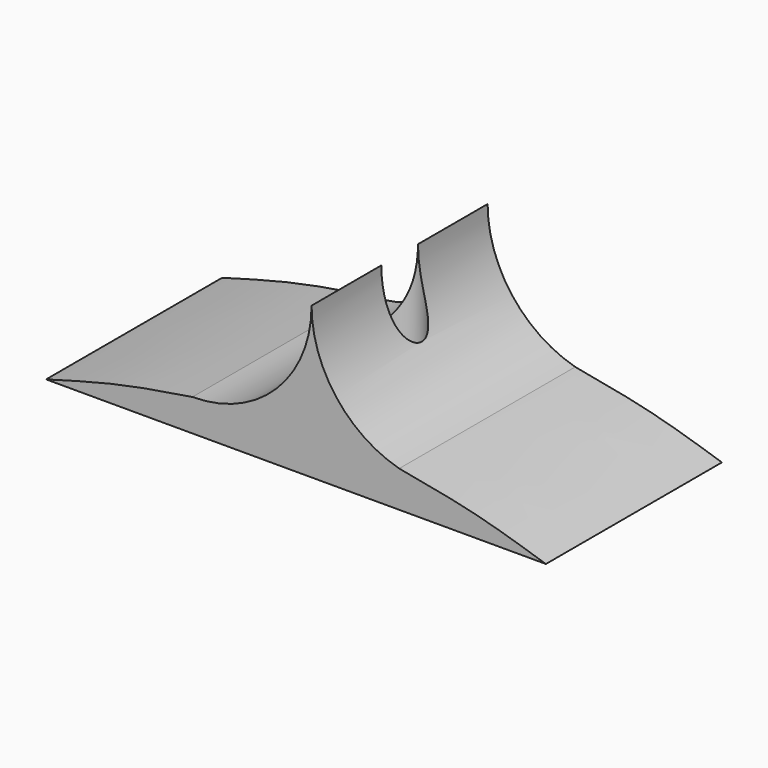
from build123d import *

# Parameters (mm, degrees)
F1_DEPTH = 12
F2_R     = 1.25
F3_DEPTH = 25
F2_R_2   = 2.25
F4_DEPTH = 2.5


with BuildPart() as f1:
    # F0 (on Front) → F1 (new body)
    with BuildSketch(Plane.XZ):
        with BuildLine():
            ThreePointArc((-15.0881102346, 0), (-16.991298859, -4.5955766968), (-21.5863641351, -6.4999997655))
            Line((-21.5863641351, -6.4999997655), (-21.5863641351, -8.2499998827))
            Line((-21.5863641351, -8.2499998827), (-10.3100242913, -8.2499998827))
            Line((-10.3100242913, -8.2499998827), (-10.3100242913, -6.2677756805))
            ThreePointArc((-10.3100242913, -6.2677756805), (-13.7573675008, -3.9406572188), (-15.0881102346, 0))
        make_face()
        with BuildLine():
            Line((-21.5863641351, -8.2499998827), (-21.5863641351, -6.4999997655))
            add(Edge.make_bspline(
                [(-21.5863641351, -6.4999997655), (-22.9185539989, -6.7095944516), (-25.5951490164, -7.1307056669), (-28.238998845, -7.875768386), (-29.566956684, -8.2499998827)],
                knots=[0, 0, 0, 0, 0.4977181288, 1, 1, 1, 1], degree=3))
            Line((-29.566956684, -8.2499998827), (-21.5863641351, -8.2499998827))
        make_face()
        with BuildLine():
            add(Edge.make_bspline(
                [(-10.3100242913, -6.2677756805), (-8.8950325252, -6.524315434), (-6.1143970315, -7.0284480808), (-3.563055622, -7.847662156), (-2.3100242913, -8.2499998827)],
                knots=[0, 0, 0, 0, 0.508873518, 1, 1, 1, 1], degree=3))
            Line((-10.3100242913, -6.2677756805), (-10.3100242913, -8.2499998827))
            Line((-10.3100242913, -8.2499998827), (-2.3100242913, -8.2499998827))
        make_face()
    extrude(amount=F1_DEPTH)

    # F2 (on face) → F3 (cut)
    with BuildSketch(Plane(origin=(0, 0, -8.2499998827), x_dir=(1, 0, 0), z_dir=(0, 0, -1))):
        with Locations((-15.1280872524, 5.9963222593)):
            Circle(F2_R)
    extrude(amount=-F3_DEPTH, mode=Mode.SUBTRACT)

    # F2 (on face) → F4 (cut)
    with BuildSketch(Plane(origin=(0, 0, -8.2499998827), x_dir=(1, 0, 0), z_dir=(0, 0, -1))):
        with Locations((-15.1280872524, 5.9963222593)):
            Circle(F2_R_2)
        with Locations((-15.1280872524, 5.9963222593)):
            Circle(F2_R, mode=Mode.SUBTRACT)
    extrude(amount=-F4_DEPTH, mode=Mode.SUBTRACT)


solid = f1.part
